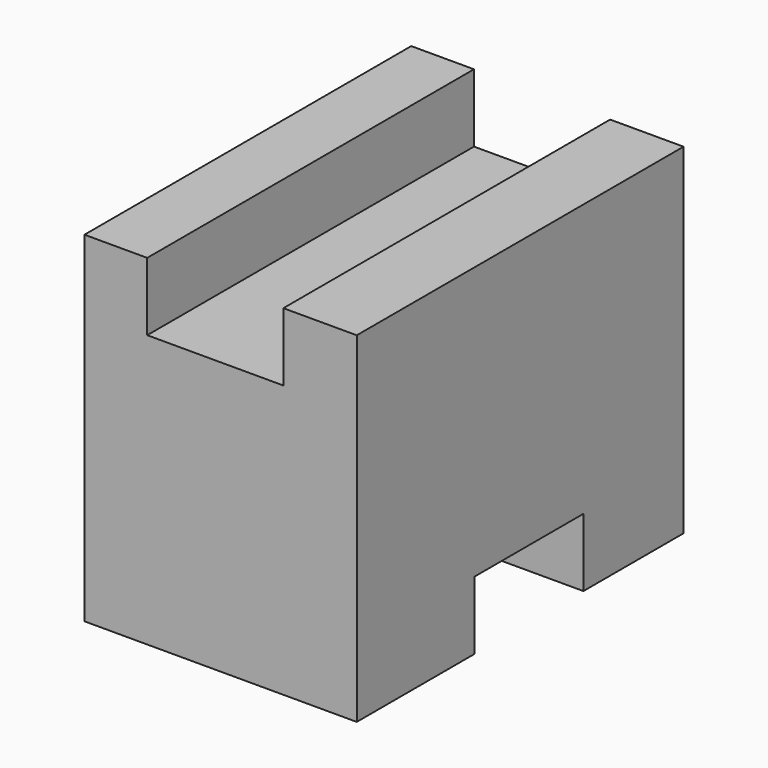
from build123d import *

# Parameters (mm, degrees)
F0_W     = 25.4
F0_H     = 31.75
F1_DEPTH = 38.1
F2_W     = 12.7
F2_H     = 6.35
F3_DEPTH = 38.1
F4_W     = 12.7
F4_H     = 6.35
F5_DEPTH = 25.4


with BuildPart() as f1:
    # F0 (on Front) → F1 (new body)
    with BuildSketch(Plane.XZ):
        with Locations((-28.118463, 21.523619)):
            Rectangle(F0_W, F0_H)
    extrude(amount=F1_DEPTH)

    # F2 (on face) → F3 (cut)
    with BuildSketch(Plane.XZ.offset(38.1)):
        with Locations((-28.616361, 34.223619)):
            Rectangle(F2_W, F2_H)
    extrude(amount=-F3_DEPTH, mode=Mode.SUBTRACT)

    # F4 (on face) → F5 (cut)
    with BuildSketch(Plane(origin=(-40.818463, 0, 0), x_dir=(0, -1, 0), z_dir=(-1, 0, 0))):
        with Locations((18.023104, 8.823619)):
            Rectangle(F4_W, F4_H)
    extrude(amount=-F5_DEPTH, mode=Mode.SUBTRACT)


solid = f1.part
